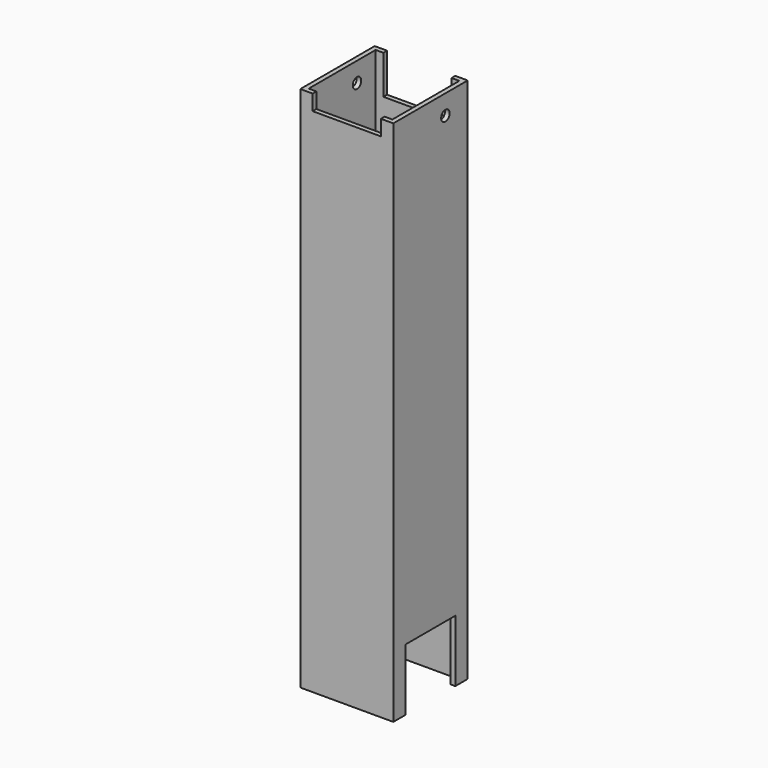
from build123d import *

# Parameters (mm, degrees)
F0_W     = 60
F0_H     = 60
F0_W_2   = 54
F0_H_2   = 54
F1_DEPTH = 340
F2_W     = 40
F2_H     = 40
F3_DEPTH = 3
F4_W     = 44
F4_H     = 25
F5_DEPTH = 3
F7_D     = 6.8
F8_W     = 44
F8_H     = 10
F9_DEPTH = 25


with BuildPart() as f1:
    # F0 (on Top) → F1 (new body)
    with BuildSketch(Plane.XY):
        with Locations((30, 30)):
            Rectangle(F0_W, F0_H)
        with Locations((30, 30)):
            Rectangle(F0_W_2, F0_H_2, mode=Mode.SUBTRACT)
    extrude(amount=F1_DEPTH)

    # F2 (on face) → F3 (cut)
    with BuildSketch(Plane.YZ.offset(60)):
        with Locations((30, 20)):
            Rectangle(F2_W, F2_H)
    extrude(amount=-F3_DEPTH, mode=Mode.SUBTRACT)

    # F4 (on face) → F5 (cut)
    with BuildSketch(Plane(origin=(0, 60, 0), x_dir=(-1, 0, 0), z_dir=(0, 1, 0))):
        with Locations((-30, 327.5)):
            Rectangle(F4_W, F4_H)
    extrude(amount=-F5_DEPTH, mode=Mode.SUBTRACT)

    # F7 (through all)
    with Locations(Plane.YZ.offset(60)):
        with Locations((42, 327.3)):
            Hole(F7_D / 2)

    # F8 (on face) → F9 (cut)
    with BuildSketch(Plane.XZ):
        with Locations((30, 335)):
            Rectangle(F8_W, F8_H)
    extrude(amount=-F9_DEPTH, mode=Mode.SUBTRACT)


solid = f1.part
